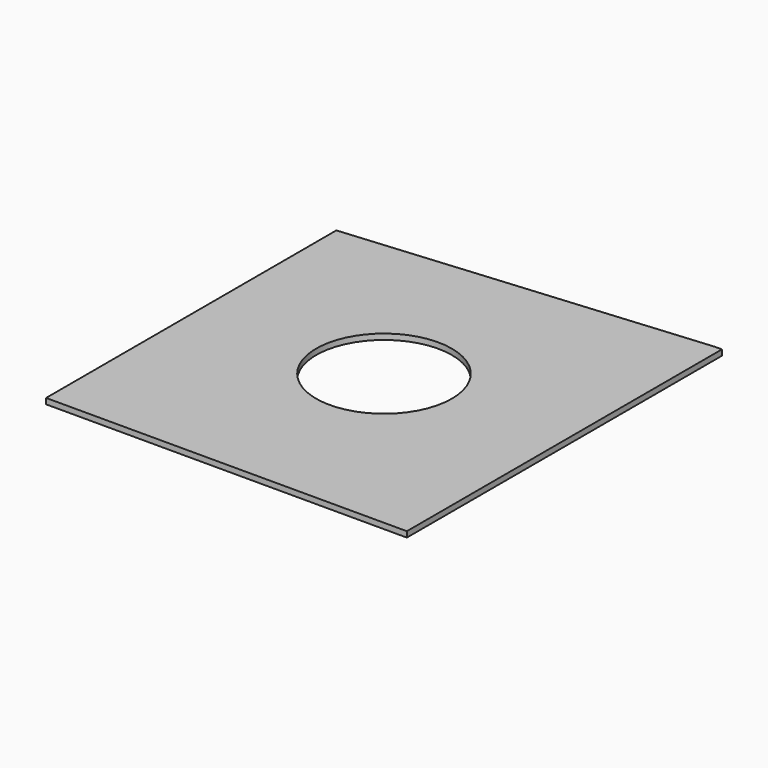
from build123d import *

# Parameters (mm, degrees)
F0_W     = 1215.8472
F0_H     = 1327.15
F1_DEPTH = 19.05
F2_SIZE2 = 104.4195221847
F2_SIZE  = 1193.5206
F3_R     = 228.6
F4_DEPTH = 19.051


with BuildPart() as f1:
    # F0 (on Top) → F1 (new body)
    with BuildSketch(Plane.XY):
        Rectangle(F0_W, F0_H)
    extrude(amount=F1_DEPTH)

    # F2
    f2_edges = [f1.edges().sort_by_distance(p)[0] for p in [
        (-607.9236, 663.575, 9.525),
    ]]
    f2_side = f1.faces().sort_by_distance((0, 663.575, 9.525))[0]
    chamfer(f2_edges, length=F2_SIZE, length2=F2_SIZE2, reference=f2_side)

    # F3 (on face) → F4 (cut, through all)
    with BuildSketch(Plane.XY.offset(19.05)):
        Circle(F3_R)
    extrude(amount=-F4_DEPTH, mode=Mode.SUBTRACT)


solid = f1.part
